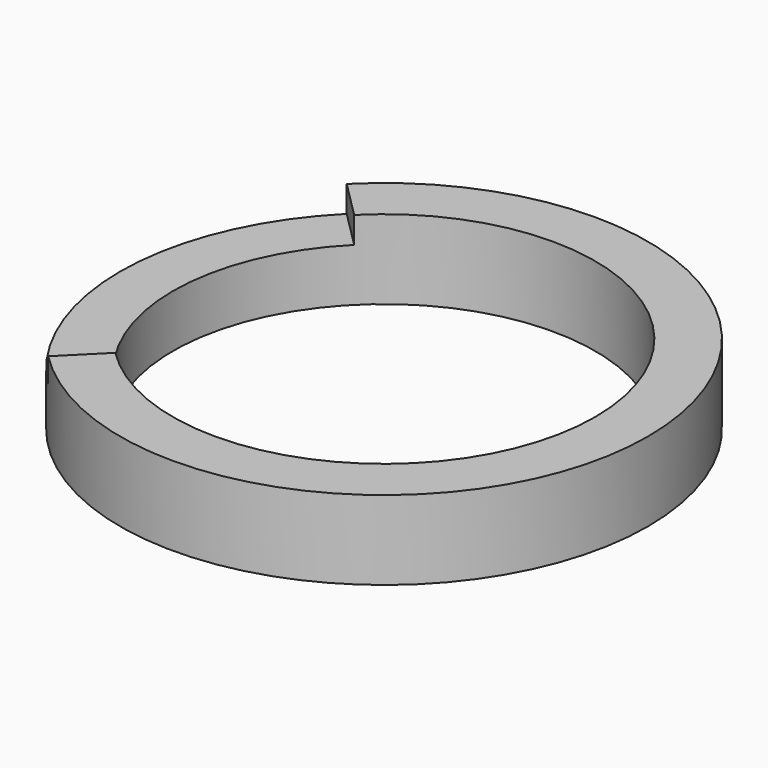
from build123d import *

# Parameters (mm, degrees)
SKETCH010_R     = 10
PAD002_DEPTH    = 3
SKETCH011_R     = 8
POCKET008_DEPTH = 5
POCKET009_DEPTH = 1


with BuildPart() as part:
    # Sketch010 → Pad002 (new body)
    with BuildSketch(Plane.XY):
        Circle(SKETCH010_R)
    extrude(amount=PAD002_DEPTH)

    # Sketch011 → Pocket008 (cut)
    with BuildSketch(Plane.XY.offset(3)):
        Circle(SKETCH011_R)
    extrude(amount=-POCKET008_DEPTH, mode=Mode.SUBTRACT)

    # Sketch012 (on Face3 of Pocket008) → Pocket009 (cut)
    with BuildSketch(Plane.XY.offset(3)):
        with BuildLine():
            ThreePointArc((-7.07107, 7.071066), (-10, -2e-06), (-7.071068, -7.071068))
            Line((0, 0), (-7.071068, -7.071068))
            Line((-7.07107, 7.071066), (0, 0))
        make_face()
    extrude(amount=-POCKET009_DEPTH, mode=Mode.SUBTRACT)


with BuildPart() as part_1:
    # Body003 placement: moved
    add(part.part.moved(Location((-100, -75, 0))))


solid = part_1.part
